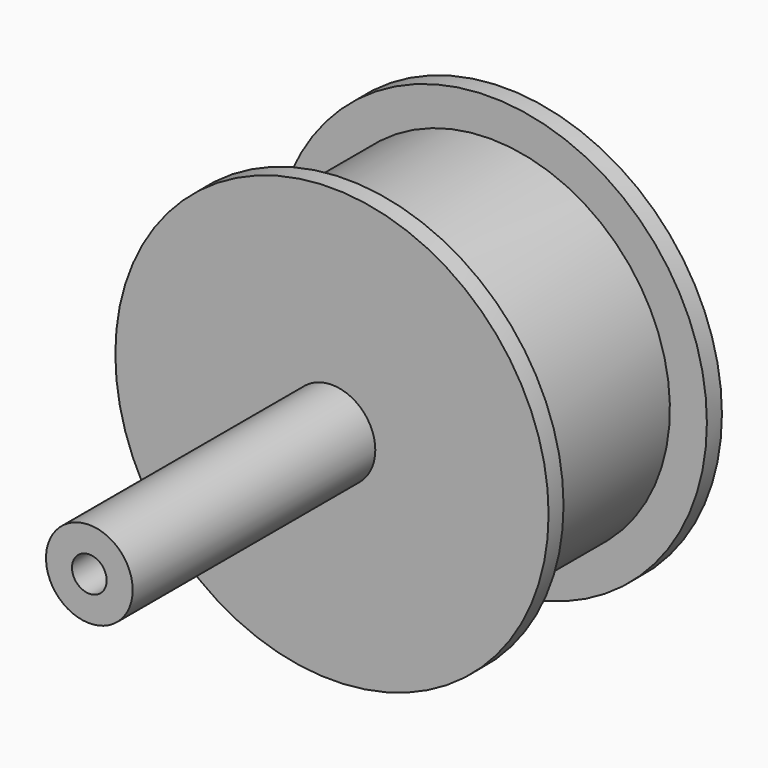
from build123d import *

# Parameters (mm, degrees)
F0_R     = 25
F0_R_2   = 5
F1_DEPTH = 25
F0_R_3   = 2
F2_DEPTH = 60


with BuildPart() as f1:
    # F0 (on Front) → F1 (new body)
    with BuildSketch(Plane.XZ):
        Circle(F0_R)
        Circle(F0_R_2, mode=Mode.SUBTRACT)
    extrude(amount=F1_DEPTH)

    # F0 (on Front) → F2 (join)
    with BuildSketch(Plane.XZ):
        Circle(F0_R_2)
        Circle(F0_R_3, mode=Mode.SUBTRACT)
    extrude(amount=F2_DEPTH)

    # F3 (on Right) → F4 (revolve, cut)
    with BuildSketch(Plane.YZ):
        Polygon((-2.168103, 20.730987), (-2.168103, 26.635021), (-22.844952, 26.710875), (-22.844952, 20.730987), align=None)
    revolve(axis=Axis((0, -34.338176, 0), (0, -1, 0)), mode=Mode.SUBTRACT)


solid = f1.part
